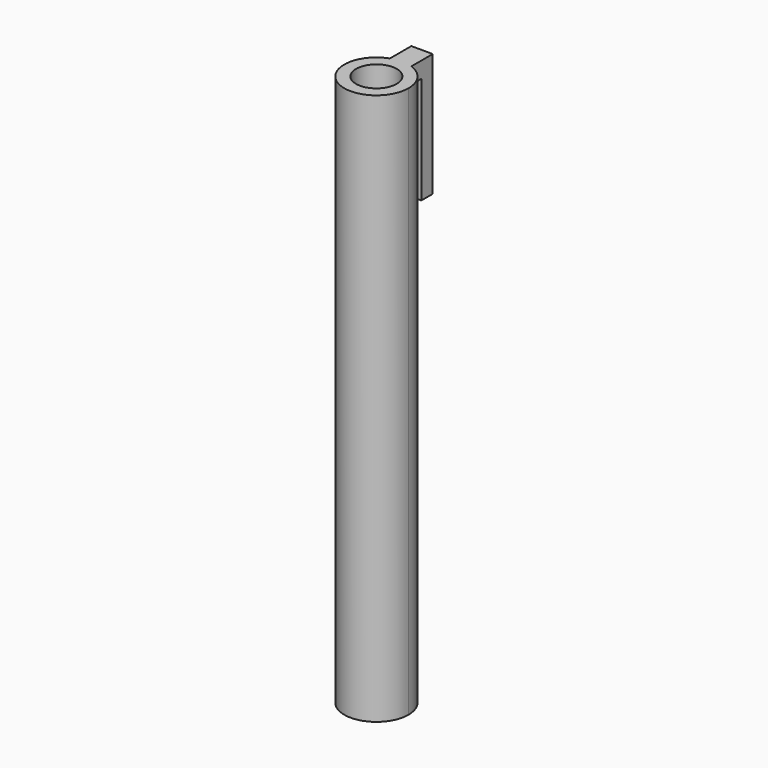
from build123d import *

# Parameters (mm, degrees)
F0_R     = 4.826
F1_DEPTH = 127
F0_W     = 5.08
F0_H     = 3.3782
F2_DEPTH = 3.81
F3_DEPTH = 25.4
F4_R     = 4.826
F5_DEPTH = 6.35


with BuildPart() as f1:
    # F0 (on Top) → F1 (new body)
    with BuildSketch(Plane.XY):
        with BuildLine():
            ThreePointArc((-2.54, 7.184205), (-4.399409, -6.221704), (7.62, 0))
            ThreePointArc((7.62, 0), (6.221704, 4.399409), (2.54, 7.184205))
            ThreePointArc((2.54, 7.184205), (0, 7.62), (-2.54, 7.184205))
        make_face()
        Circle(F0_R, mode=Mode.SUBTRACT)
    extrude(amount=-F1_DEPTH)

    # F0 (on Top) → F2 (join)
    with BuildSketch(Plane.XY):
        with BuildLine():
            ThreePointArc((-2.54, 7.184205), (-4.399409, -6.221704), (7.62, 0))
            ThreePointArc((7.62, 0), (6.221704, 4.399409), (2.54, 7.184205))
            ThreePointArc((2.54, 7.184205), (0, 7.62), (-2.54, 7.184205))
        make_face()
        Circle(F0_R, mode=Mode.SUBTRACT)
        with BuildLine():
            ThreePointArc((-2.54, 7.184205), (0, 7.62), (2.54, 7.184205))
            Line((2.54, 7.184205), (2.54, 10.156005))
            Line((2.54, 10.156005), (-2.54, 10.156005))
            Line((-2.54, 10.156005), (-2.54, 7.184205))
        make_face()
        with Locations((0, 11.845105)):
            Rectangle(F0_W, F0_H)
    extrude(amount=F2_DEPTH)

    # F0 (on Top) → F3 (join)
    with BuildSketch(Plane.XY):
        with Locations((0, 11.845105)):
            Rectangle(F0_W, F0_H)
    extrude(amount=-F3_DEPTH)

    # F4 (on face) → F5 (join)
    with BuildSketch(Plane(origin=(0, 0, -127), x_dir=(1, 0, 0), z_dir=(0, 0, -1))):
        Circle(F4_R)
    extrude(amount=-F5_DEPTH)


solid = f1.part
